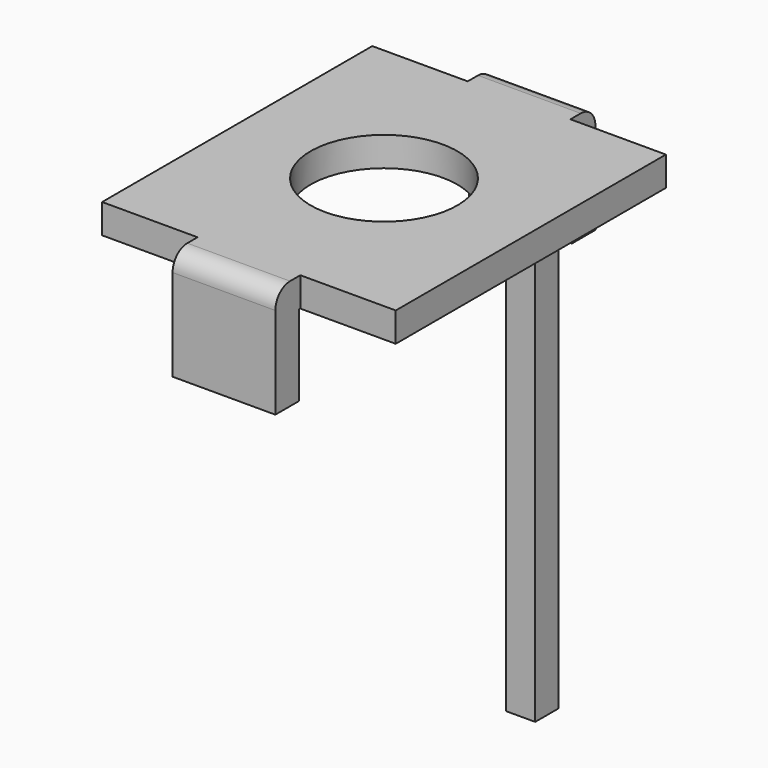
from build123d import *

# Parameters (mm, degrees)
PAD_DEPTH       = 4
SKETCH001_R     = 2
SKETCH001_W     = 0.85
SKETCH001_H     = 2.6
POCKET_DEPTH    = 10
SKETCH002_W     = 11.8
SKETCH002_H     = 3.6
POCKET001_DEPTH = 15
SKETCH003_W     = 11.8
SKETCH003_H     = 0.8
POCKET002_DEPTH = 5


with BuildPart() as part:
    # Sketch → Pad (new body, symmetric)
    with BuildSketch(Plane.YZ):
        with BuildLine():
            Line((-5.45, -14.8), (-5.45, -0.5))
            ThreePointArc((-4.95, 0), (-5.303553, -0.146447), (-5.45, -0.5))
            Line((-4.95, 0), (4.95, 0))
            ThreePointArc((5.45, -0.5), (5.303553, -0.146447), (4.95, 0))
            Line((5.45, -0.5), (5.45, -14.8))
            Line((5.45, -14.8), (4.65, -14.8))
            Line((4.65, -14.8), (4.65, -0.8))
            Line((4.65, -0.8), (-4.65, -0.8))
            Line((-4.65, -0.8), (-4.65, -14.8))
            Line((-4.65, -14.8), (-5.45, -14.8))
        make_face()
    extrude(amount=PAD_DEPTH, both=True)

    # Sketch001 (on Face9 of Pad) → Pocket (cut)
    with BuildSketch(Plane(origin=(0, 0, 0), x_dir=(0, -1, 0), z_dir=(0, 0, 1))):
        Circle(SKETCH001_R)
        with Locations((-5.025, 2.7)):
            Rectangle(SKETCH001_W, SKETCH001_H)
        with Locations((-5.025, -2.7)):
            Rectangle(SKETCH001_W, SKETCH001_H)
        with Locations((5.025, 2.7)):
            Rectangle(SKETCH001_W, SKETCH001_H)
        with Locations((5.025, -2.7)):
            Rectangle(SKETCH001_W, SKETCH001_H)
    extrude(amount=-POCKET_DEPTH, mode=Mode.SUBTRACT)

    # Sketch002 (on Face24 of Pocket) → Pocket001 (cut)
    with BuildSketch(Plane(origin=(0, -5.45, 0), x_dir=(0, 0, -1), z_dir=(0, -1, 0))):
        with Locations((8.9, 2.2)):
            Rectangle(SKETCH002_W, SKETCH002_H)
        with Locations((8.9, -2.2)):
            Rectangle(SKETCH002_W, SKETCH002_H)
    extrude(amount=-POCKET001_DEPTH, mode=Mode.SUBTRACT)

    # Sketch003 (on Face24 of Pocket001) → Pocket002 (cut)
    with BuildSketch(Plane(origin=(0, -5.45, 0), x_dir=(0, 0, -1), z_dir=(0, -1, 0))):
        with Locations((8.9, 0)):
            Rectangle(SKETCH003_W, SKETCH003_H)
    extrude(amount=-POCKET002_DEPTH, mode=Mode.SUBTRACT)


solid = part.part
